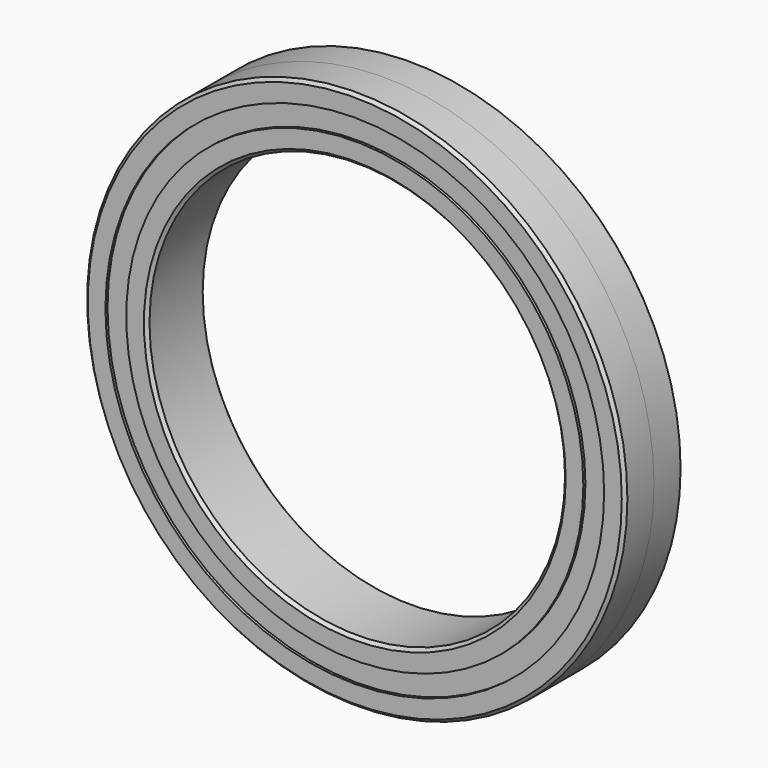
from build123d import *

# Parameters (mm, degrees)
F0_R     = 26
F0_R_2   = 24
F0_R_3   = 22
F0_R_4   = 20
F1_DEPTH = 3.5
F2_DEPTH = 3.25
F3_SIZE  = 0.3


with BuildPart() as f1:
    # F0 (on Front) → F1 (new body, symmetric)
    with BuildSketch(Plane.XZ):
        Circle(F0_R)
        Circle(F0_R_2, mode=Mode.SUBTRACT)
        Circle(F0_R_3)
        Circle(F0_R_4, mode=Mode.SUBTRACT)
    extrude(amount=F1_DEPTH, both=True)

    # F0 (on Front) → F2 (join, symmetric)
    with BuildSketch(Plane.XZ):
        Circle(F0_R_2)
        Circle(F0_R_3, mode=Mode.SUBTRACT)
    extrude(amount=F2_DEPTH, both=True)

    # F3
    f3_edges = [f1.edges().sort_by_distance(p)[0] for p in [
        (-26, -3.5, 0),
        (-26, 3.5, 0),
        (-20, -3.5, 0),
        (-20, 3.5, 0),
    ]]
    chamfer(f3_edges, length=F3_SIZE)


solid = f1.part
